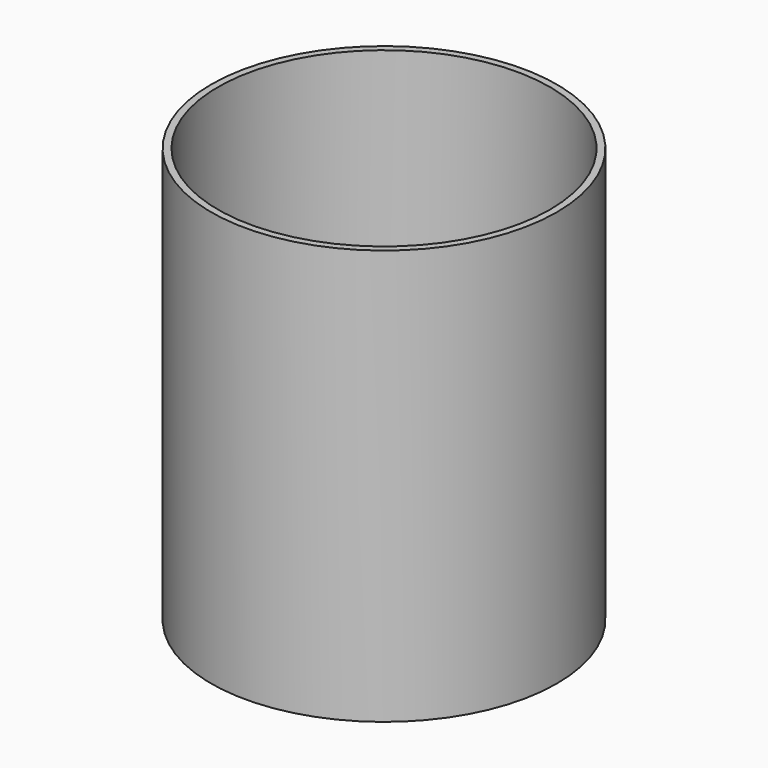
from build123d import *

# Parameters (mm, degrees)
F0_R     = 63.5059965163
F1_DEPTH = 76.2
F2_T     = -2.54
F3_DEPTH = 76.2


with BuildPart() as f1:
    # F0 (on Top) → F1 (new body)
    with BuildSketch(Plane.XY):
        Circle(F0_R)
    extrude(amount=F1_DEPTH)

    # F2
    f2_openings = [f1.faces().sort_by_distance(p)[0] for p in [
        (0, 0, 76.2),
    ]]
    offset(amount=F2_T, openings=f2_openings)

    # F3 (add): a face of the model
    f3_faces = [f1.faces().sort_by_distance(p)[0] for p in [
        (-61.709775685, 0, 76.2),
    ]]
    extrude(f3_faces, amount=F3_DEPTH)


solid = f1.part
